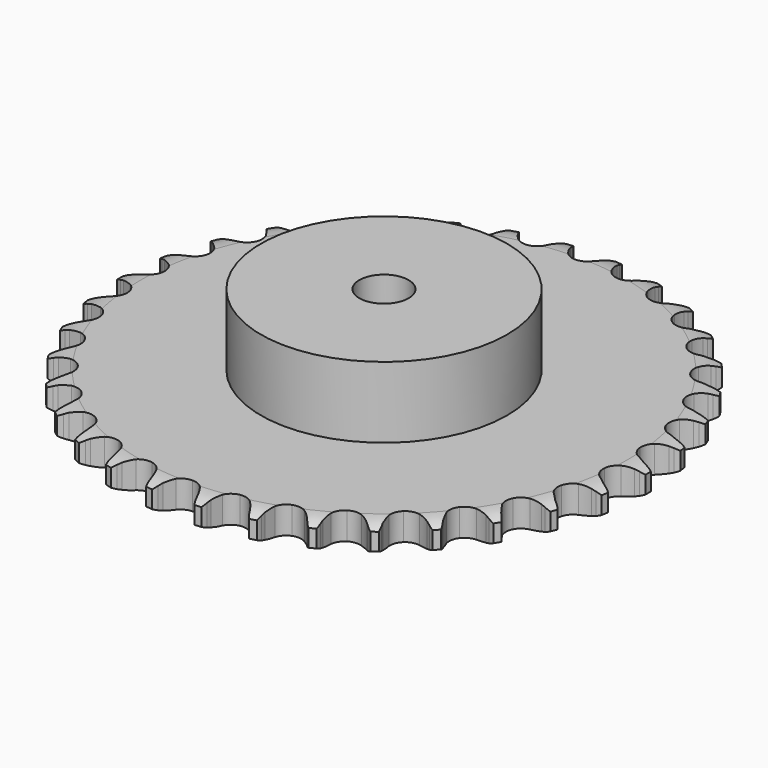
from build123d import *

# Parameters (mm, degrees)
PAD_DEPTH         = 11.1
SKETCH001_R       = 50
PAD001_DEPTH      = 40
SKETCH002_R       = 10
POCKET_DEPTH      = 0.001
POCKET_DEPTH_BACK = 40.001


with BuildPart() as part:
    # Sprocket → Pad (new body)
    with BuildSketch(Plane.XY):
        with BuildLine():
            ThreePointArc((-10.082744, 108.810139), (-8.639647, 107.094844), (-7.623169, 105.096959))
            Line((-7.623169, 105.096959), (-7.034333, 103.51462))
            ThreePointArc((-7.034333, 103.51462), (-6.1025, 101.4699), (-4.889335, 99.578493))
            ThreePointArc((-4.889335, 99.578493), (-2.734478, 97.77506), (0, 97.128213))
            ThreePointArc((0, 97.128213), (2.734478, 97.77506), (4.889335, 99.578493))
            ThreePointArc((4.889335, 99.578493), (6.1025, 101.4699), (7.034333, 103.51462))
            Line((7.034333, 103.51462), (7.623169, 105.096959))
            ThreePointArc((7.623169, 105.096959), (8.639647, 107.094844), (10.082744, 108.810139))
            ThreePointArc((10.082744, 108.810139), (11.186086, 106.858881), (11.818145, 104.708237))
            Line((11.818145, 104.708237), (12.106202, 103.044642))
            ThreePointArc((12.106202, 103.044642), (12.646452, 100.863514), (13.491415, 98.781393))
            ThreePointArc((13.491415, 98.781393), (15.278202, 96.612713), (17.847262, 95.47442))
            ThreePointArc((17.847262, 95.47442), (20.654038, 95.607795), (23.103585, 96.984567))
            Line((23.103585, 96.984567), (25.935321, 100.459532))
            ThreePointArc((25.935321, 100.459532), (26.350709, 101.194784), (26.804886, 101.90673))
            ThreePointArc((26.804886, 101.90673), (28.171166, 103.683819), (29.904877, 105.10474))
            ThreePointArc((29.904877, 105.10474), (30.630889, 102.983968), (30.857007, 100.753802))
            Line((30.857007, 100.753802), (30.834474, 99.065602))
            ThreePointArc((30.834474, 99.065602), (30.964744, 96.822341), (31.412732, 94.620411))
            ThreePointArc((31.412732, 94.620411), (32.770601, 92.160336), (35.086757, 90.569361))
            ThreePointArc((35.086757, 90.569361), (37.87025, 90.184721), (40.53107, 91.087948))
            Line((40.53107, 91.087948), (43.953114, 93.983414))
            ThreePointArc((43.953114, 93.983414), (44.496531, 94.62982), (45.073794, 95.246189))
            ThreePointArc((45.073794, 95.246189), (46.74335, 96.741967), (48.708635, 97.820126))
            ThreePointArc((48.708635, 97.820126), (49.032595, 95.602059), (48.84507, 93.368317))
            Line((48.84507, 93.368317), (48.512715, 91.713003))
            ThreePointArc((48.512715, 91.713003), (48.228569, 89.484), (48.264325, 87.237244))
            ThreePointArc((48.264325, 87.237244), (49.147037, 84.569549), (51.131415, 82.580071))
            ThreePointArc((51.131415, 82.580071), (53.796836, 81.690515), (56.578318, 82.089438))
            Line((56.578318, 82.089438), (60.474135, 84.306805))
            ThreePointArc((60.474135, 84.306805), (61.127077, 84.842352), (61.807768, 85.342154))
            ThreePointArc((61.807768, 85.342154), (63.723746, 86.505683), (65.853679, 87.204364))
            ThreePointArc((65.853679, 87.204364), (65.764554, 84.964537), (65.169773, 82.803286))
            Line((65.169773, 82.803286), (64.538914, 81.237226))
            ThreePointArc((64.538914, 81.237226), (63.850028, 79.098389), (63.472335, 76.883318))
            ThreePointArc((63.472335, 76.883318), (63.849829, 74.098847), (65.434854, 71.778615))
            ThreePointArc((65.434854, 71.778615), (67.891435, 70.414436), (70.698859, 70.295471))
            Line((70.698859, 70.295471), (74.935783, 71.759228))
            ThreePointArc((74.935783, 71.759228), (75.676013, 72.165679), (76.436953, 72.531894))
            ThreePointArc((76.436953, 72.531894), (78.534105, 73.323552), (80.756155, 73.618962))
            ThreePointArc((80.756155, 73.618962), (80.25698, 71.433649), (79.275198, 69.418488))
            Line((79.275198, 69.418488), (78.367317, 67.995014))
            ThreePointArc((78.367317, 67.995014), (77.29715, 66.019177), (76.51887, 63.911222))
            ThreePointArc((76.51887, 63.911222), (76.378292, 61.104798), (77.509987, 58.532825))
            ThreePointArc((77.509987, 58.532825), (79.674073, 56.740478), (82.411835, 56.107675))
            Line((82.411835, 56.107675), (86.845582, 56.767977))
            ThreePointArc((86.845582, 56.767977), (87.647894, 57.03149), (88.463169, 57.251647))
            ThreePointArc((88.463169, 57.251647), (90.67008, 57.644475), (92.908576, 57.526555))
            ThreePointArc((92.908576, 57.526555), (92.016351, 55.470174), (90.681001, 53.669727))
            Line((90.681001, 53.669727), (89.527016, 52.437313))
            ThreePointArc((89.527016, 52.437313), (88.112011, 50.691761), (86.959647, 48.762707))
            ThreePointArc((86.959647, 48.762707), (86.305783, 46.029899), (86.94561, 43.29377))
            ThreePointArc((86.94561, 43.29377), (88.743506, 41.134291), (91.318376, 40.009201))
            Line((91.318376, 40.009201), (95.79796, 39.84356))
            ThreePointArc((95.79796, 39.84356), (96.635031, 39.955162), (97.476878, 40.021764))
            ThreePointArc((97.476878, 40.021764), (99.718394, 40.002385), (101.897108, 39.47515))
            ThreePointArc((101.897108, 39.47515), (100.642215, 37.617729), (98.998771, 36.093308))
            Line((98.998771, 36.093308), (97.637979, 35.093922))
            ThreePointArc((97.637979, 35.093922), (95.926323, 33.638097), (94.439118, 31.953636))
            ThreePointArc((94.439118, 31.953636), (93.294235, 29.387506), (93.420405, 26.580397))
            ThreePointArc((93.420405, 26.580397), (94.790886, 24.127325), (97.115178, 22.54826))
            Line((97.115178, 22.54826), (101.488052, 21.562319))
            ThreePointArc((101.488052, 21.562319), (102.331378, 21.518209), (103.171129, 21.428988))
            ThreePointArc((103.171129, 21.428988), (105.370918, 20.998061), (107.415656, 20.079466))
            ThreePointArc((107.415656, 20.079466), (105.84083, 18.484257), (103.945256, 17.287774))
            Line((103.945256, 17.287774), (102.423998, 16.55545))
            ThreePointArc((102.423998, 16.55545), (100.47398, 15.438929), (98.702578, 14.056422))
            ThreePointArc((98.702578, 14.056422), (97.105663, 11.744357), (96.713881, 8.961861))
            ThreePointArc((96.713881, 8.961861), (97.610275, 6.298732), (99.60484, 4.319466))
            Line((99.60484, 4.319466), (103.722091, 2.546799))
            ThreePointArc((103.722091, 2.546799), (104.542952, 2.348479), (105.352011, 2.106474))
            ThreePointArc((105.352011, 2.106474), (107.435162, 1.278674), (109.276292, 0))
            ThreePointArc((109.276292, 0), (107.435162, -1.278674), (105.352011, -2.106474))
            Line((105.352011, -2.106474), (103.722091, -2.546799))
            ThreePointArc((103.722091, -2.546799), (101.600115, -3.285993), (99.60484, -4.319466))
            ThreePointArc((99.60484, -4.319466), (97.610275, -6.298732), (96.713881, -8.961861))
            ThreePointArc((96.713881, -8.961861), (97.105663, -11.744357), (98.702578, -14.056422))
            Line((98.702578, -14.056422), (102.423998, -16.55545))
            ThreePointArc((102.423998, -16.55545), (103.194442, -16.901225), (103.945256, -17.287774))
            ThreePointArc((103.945256, -17.287774), (105.84083, -18.484257), (107.415656, -20.079466))
            ThreePointArc((107.415656, -20.079466), (105.370918, -20.998061), (103.171129, -21.428988))
            Line((103.171129, -21.428988), (101.488052, -21.562319))
            ThreePointArc((101.488052, -21.562319), (99.26638, -21.899015), (97.115178, -22.54826))
            ThreePointArc((97.115178, -22.54826), (94.790886, -24.127325), (93.420405, -26.580397))
            ThreePointArc((93.420405, -26.580397), (93.294235, -29.387506), (94.439118, -31.953636))
            Line((94.439118, -31.953636), (97.637979, -35.093922))
            ThreePointArc((97.637979, -35.093922), (98.331768, -35.575378), (98.998771, -36.093308))
            ThreePointArc((98.998771, -36.093308), (100.642215, -37.617729), (101.897108, -39.47515))
            ThreePointArc((101.897108, -39.47515), (99.718394, -40.002385), (97.476878, -40.021764))
            Line((97.476878, -40.021764), (95.79796, -39.84356))
            ThreePointArc((95.79796, -39.84356), (93.552248, -39.766292), (91.318376, -40.009201))
            ThreePointArc((91.318376, -40.009201), (88.743506, -41.134291), (86.94561, -43.29377))
            ThreePointArc((86.94561, -43.29377), (86.305783, -46.029899), (86.959647, -48.762707))
            Line((86.959647, -48.762707), (89.527016, -52.437313))
            ThreePointArc((89.527016, -52.437313), (90.120524, -53.038055), (90.681001, -53.669727))
            ThreePointArc((90.681001, -53.669727), (92.016351, -55.470174), (92.908576, -57.526555))
            ThreePointArc((92.908576, -57.526555), (90.67008, -57.644475), (88.463169, -57.251647))
            Line((88.463169, -57.251647), (86.845582, -56.767977))
            ThreePointArc((86.845582, -56.767977), (84.652306, -56.279376), (82.411835, -56.107675))
            ThreePointArc((82.411835, -56.107675), (79.674073, -56.740478), (77.509987, -58.532825))
            ThreePointArc((77.509987, -58.532825), (76.378292, -61.104798), (76.51887, -63.911222))
            Line((76.51887, -63.911222), (78.367317, -67.995014))
            ThreePointArc((78.367317, -67.995014), (78.840334, -68.694584), (79.275198, -69.418488))
            ThreePointArc((79.275198, -69.418488), (80.25698, -71.433649), (80.756155, -73.618962))
            ThreePointArc((80.756155, -73.618962), (78.534105, -73.323552), (76.436953, -72.531894))
            Line((76.436953, -72.531894), (74.935783, -71.759228))
            ThreePointArc((74.935783, -71.759228), (72.869632, -70.875933), (70.698859, -70.295471))
            ThreePointArc((70.698859, -70.295471), (67.891435, -70.414436), (65.434854, -71.778615))
            ThreePointArc((65.434854, -71.778615), (63.849829, -74.098847), (63.472335, -76.883318))
            Line((63.472335, -76.883318), (64.538914, -81.237226))
            ThreePointArc((64.538914, -81.237226), (64.875331, -82.011802), (65.169773, -82.803286))
            ThreePointArc((65.169773, -82.803286), (65.764554, -84.964537), (65.853679, -87.204364))
            ThreePointArc((65.853679, -87.204364), (63.723746, -86.505683), (61.807768, -85.342154))
            Line((61.807768, -85.342154), (60.474135, -84.306805))
            ThreePointArc((60.474135, -84.306805), (58.605469, -83.058895), (56.578318, -82.089438))
            ThreePointArc((56.578318, -82.089438), (53.796836, -81.690515), (51.131415, -82.580071))
            ThreePointArc((51.131415, -82.580071), (49.147037, -84.569549), (48.264325, -87.237244))
            Line((48.264325, -87.237244), (48.512715, -91.713003))
            ThreePointArc((48.512715, -91.713003), (48.701076, -92.536206), (48.84507, -93.368317))
            ThreePointArc((48.84507, -93.368317), (49.032595, -95.602059), (48.708635, -97.820126))
            ThreePointArc((48.708635, -97.820126), (46.74335, -96.741967), (45.073794, -95.246189))
            Line((45.073794, -95.246189), (43.953114, -93.983414))
            ThreePointArc((43.953114, -93.983414), (42.345568, -92.413387), (40.53107, -91.087948))
            ThreePointArc((40.53107, -91.087948), (37.87025, -90.184721), (35.086757, -90.569361))
            ThreePointArc((35.086757, -90.569361), (32.770601, -92.160336), (31.412732, -94.620411))
            Line((31.412732, -94.620411), (30.834474, -99.065602))
            ThreePointArc((30.834474, -99.065602), (30.868365, -99.9094), (30.857007, -100.753802))
            ThreePointArc((30.857007, -100.753802), (30.630889, -102.983968), (29.904877, -105.10474))
            ThreePointArc((29.904877, -105.10474), (28.171166, -103.683819), (26.804886, -101.90673))
            Line((26.804886, -101.90673), (25.935321, -100.459532))
            ThreePointArc((25.935321, -100.459532), (24.643639, -98.620851), (23.103585, -96.984567))
            ThreePointArc((23.103585, -96.984567), (20.654038, -95.607795), (17.847262, -95.47442))
            ThreePointArc((17.847262, -95.47442), (15.278202, -96.612713), (13.491415, -98.781393))
            Line((13.491415, -98.781393), (12.106202, -103.044642))
            ThreePointArc((12.106202, -103.044642), (11.984468, -103.8803), (11.818145, -104.708237))
            ThreePointArc((11.818145, -104.708237), (11.186086, -106.858881), (10.082744, -108.810139))
            ThreePointArc((10.082744, -108.810139), (8.639647, -107.094844), (7.623169, -105.096959))
            Line((7.623169, -105.096959), (7.034333, -103.51462))
            ThreePointArc((7.034333, -103.51462), (6.1025, -101.4699), (4.889335, -99.578493))
            ThreePointArc((4.889335, -99.578493), (2.734478, -97.77506), (0, -97.128213))
            ThreePointArc((0, -97.128213), (-2.734478, -97.77506), (-4.889335, -99.578493))
            Line((-4.889335, -99.578493), (-7.034333, -103.51462))
            ThreePointArc((-7.034333, -103.51462), (-7.307545, -104.313681), (-7.623169, -105.096959))
            ThreePointArc((-7.623169, -105.096959), (-8.639647, -107.094844), (-10.082744, -108.810139))
            ThreePointArc((-10.082744, -108.810139), (-11.186086, -106.858881), (-11.818145, -104.708237))
            Line((-11.818145, -104.708237), (-12.106202, -103.044642))
            ThreePointArc((-12.106202, -103.044642), (-12.646452, -100.863514), (-13.491415, -98.781393))
            ThreePointArc((-13.491415, -98.781393), (-15.278202, -96.612713), (-17.847262, -95.47442))
            ThreePointArc((-17.847262, -95.47442), (-20.654038, -95.607795), (-23.103585, -96.984567))
            Line((-23.103585, -96.984567), (-25.935321, -100.459532))
            ThreePointArc((-25.935321, -100.459532), (-26.350709, -101.194784), (-26.804886, -101.90673))
            ThreePointArc((-26.804886, -101.90673), (-28.171166, -103.683819), (-29.904877, -105.10474))
            ThreePointArc((-29.904877, -105.10474), (-30.630889, -102.983968), (-30.857007, -100.753802))
            Line((-30.857007, -100.753802), (-30.834474, -99.065602))
            ThreePointArc((-30.834474, -99.065602), (-30.964744, -96.822341), (-31.412732, -94.620411))
            ThreePointArc((-31.412732, -94.620411), (-32.770601, -92.160336), (-35.086757, -90.569361))
            ThreePointArc((-35.086757, -90.569361), (-37.87025, -90.184721), (-40.53107, -91.087948))
            Line((-40.53107, -91.087948), (-43.953114, -93.983414))
            ThreePointArc((-43.953114, -93.983414), (-44.496531, -94.62982), (-45.073794, -95.246189))
            ThreePointArc((-45.073794, -95.246189), (-46.74335, -96.741967), (-48.708635, -97.820126))
            ThreePointArc((-48.708635, -97.820126), (-49.032595, -95.602059), (-48.84507, -93.368317))
            Line((-48.84507, -93.368317), (-48.512715, -91.713003))
            ThreePointArc((-48.512715, -91.713003), (-48.228569, -89.484), (-48.264325, -87.237244))
            ThreePointArc((-48.264325, -87.237244), (-49.147037, -84.569549), (-51.131415, -82.580071))
            ThreePointArc((-51.131415, -82.580071), (-53.796836, -81.690515), (-56.578318, -82.089438))
            Line((-56.578318, -82.089438), (-60.474135, -84.306805))
            ThreePointArc((-60.474135, -84.306805), (-61.127077, -84.842352), (-61.807768, -85.342154))
            ThreePointArc((-61.807768, -85.342154), (-63.723746, -86.505683), (-65.853679, -87.204364))
            ThreePointArc((-65.853679, -87.204364), (-65.764554, -84.964537), (-65.169773, -82.803286))
            Line((-65.169773, -82.803286), (-64.538914, -81.237226))
            ThreePointArc((-64.538914, -81.237226), (-63.850028, -79.098389), (-63.472335, -76.883318))
            ThreePointArc((-63.472335, -76.883318), (-63.849829, -74.098847), (-65.434854, -71.778615))
            ThreePointArc((-65.434854, -71.778615), (-67.891435, -70.414436), (-70.698859, -70.295471))
            Line((-70.698859, -70.295471), (-74.935783, -71.759228))
            ThreePointArc((-74.935783, -71.759228), (-75.676013, -72.165679), (-76.436953, -72.531894))
            ThreePointArc((-76.436953, -72.531894), (-78.534105, -73.323552), (-80.756155, -73.618962))
            ThreePointArc((-80.756155, -73.618962), (-80.25698, -71.433649), (-79.275198, -69.418488))
            Line((-79.275198, -69.418488), (-78.367317, -67.995014))
            ThreePointArc((-78.367317, -67.995014), (-77.29715, -66.019177), (-76.51887, -63.911222))
            ThreePointArc((-76.51887, -63.911222), (-76.378292, -61.104798), (-77.509987, -58.532825))
            ThreePointArc((-77.509987, -58.532825), (-79.674073, -56.740478), (-82.411835, -56.107675))
            Line((-82.411835, -56.107675), (-86.845582, -56.767977))
            ThreePointArc((-86.845582, -56.767977), (-87.647894, -57.03149), (-88.463169, -57.251647))
            ThreePointArc((-88.463169, -57.251647), (-90.67008, -57.644475), (-92.908576, -57.526555))
            ThreePointArc((-92.908576, -57.526555), (-92.016351, -55.470174), (-90.681001, -53.669727))
            Line((-90.681001, -53.669727), (-89.527016, -52.437313))
            ThreePointArc((-89.527016, -52.437313), (-88.112011, -50.691761), (-86.959647, -48.762707))
            ThreePointArc((-86.959647, -48.762707), (-86.305783, -46.029899), (-86.94561, -43.29377))
            ThreePointArc((-86.94561, -43.29377), (-88.743506, -41.134291), (-91.318376, -40.009201))
            Line((-91.318376, -40.009201), (-95.79796, -39.84356))
            ThreePointArc((-95.79796, -39.84356), (-96.635031, -39.955162), (-97.476878, -40.021764))
            ThreePointArc((-97.476878, -40.021764), (-99.718394, -40.002385), (-101.897108, -39.47515))
            ThreePointArc((-101.897108, -39.47515), (-100.642215, -37.617729), (-98.998771, -36.093308))
            Line((-98.998771, -36.093308), (-97.637979, -35.093922))
            ThreePointArc((-97.637979, -35.093922), (-95.926323, -33.638097), (-94.439118, -31.953636))
            ThreePointArc((-94.439118, -31.953636), (-93.294235, -29.387506), (-93.420405, -26.580397))
            ThreePointArc((-93.420405, -26.580397), (-94.790886, -24.127325), (-97.115178, -22.54826))
            Line((-97.115178, -22.54826), (-101.488052, -21.562319))
            ThreePointArc((-101.488052, -21.562319), (-102.331378, -21.518209), (-103.171129, -21.428988))
            ThreePointArc((-103.171129, -21.428988), (-105.370918, -20.998061), (-107.415656, -20.079466))
            ThreePointArc((-107.415656, -20.079466), (-105.84083, -18.484257), (-103.945256, -17.287774))
            Line((-103.945256, -17.287774), (-102.423998, -16.55545))
            ThreePointArc((-102.423998, -16.55545), (-100.47398, -15.438929), (-98.702578, -14.056422))
            ThreePointArc((-98.702578, -14.056422), (-97.105663, -11.744357), (-96.713881, -8.961861))
            ThreePointArc((-96.713881, -8.961861), (-97.610275, -6.298732), (-99.60484, -4.319466))
            Line((-99.60484, -4.319466), (-103.722091, -2.546799))
            ThreePointArc((-103.722091, -2.546799), (-104.542952, -2.348479), (-105.352011, -2.106474))
            ThreePointArc((-105.352011, -2.106474), (-107.435162, -1.278674), (-109.276292, 0))
            ThreePointArc((-109.276292, 0), (-107.435162, 1.278674), (-105.352011, 2.106474))
            Line((-105.352011, 2.106474), (-103.722091, 2.546799))
            ThreePointArc((-103.722091, 2.546799), (-101.600115, 3.285993), (-99.60484, 4.319466))
            ThreePointArc((-99.60484, 4.319466), (-97.610275, 6.298732), (-96.713881, 8.961861))
            ThreePointArc((-96.713881, 8.961861), (-97.105663, 11.744357), (-98.702578, 14.056422))
            Line((-98.702578, 14.056422), (-102.423998, 16.55545))
            ThreePointArc((-102.423998, 16.55545), (-103.194442, 16.901225), (-103.945256, 17.287774))
            ThreePointArc((-103.945256, 17.287774), (-105.84083, 18.484257), (-107.415656, 20.079466))
            ThreePointArc((-107.415656, 20.079466), (-105.370918, 20.998061), (-103.171129, 21.428988))
            Line((-103.171129, 21.428988), (-101.488052, 21.562319))
            ThreePointArc((-101.488052, 21.562319), (-99.26638, 21.899015), (-97.115178, 22.54826))
            ThreePointArc((-97.115178, 22.54826), (-94.790886, 24.127325), (-93.420405, 26.580397))
            ThreePointArc((-93.420405, 26.580397), (-93.294235, 29.387506), (-94.439118, 31.953636))
            Line((-94.439118, 31.953636), (-97.637979, 35.093922))
            ThreePointArc((-97.637979, 35.093922), (-98.331768, 35.575378), (-98.998771, 36.093308))
            ThreePointArc((-98.998771, 36.093308), (-100.642215, 37.617729), (-101.897108, 39.47515))
            ThreePointArc((-101.897108, 39.47515), (-99.718394, 40.002385), (-97.476878, 40.021764))
            Line((-97.476878, 40.021764), (-95.79796, 39.84356))
            ThreePointArc((-95.79796, 39.84356), (-93.552248, 39.766292), (-91.318376, 40.009201))
            ThreePointArc((-91.318376, 40.009201), (-88.743506, 41.134291), (-86.94561, 43.29377))
            ThreePointArc((-86.94561, 43.29377), (-86.305783, 46.029899), (-86.959647, 48.762707))
            Line((-86.959647, 48.762707), (-89.527016, 52.437313))
            ThreePointArc((-89.527016, 52.437313), (-90.120524, 53.038055), (-90.681001, 53.669727))
            ThreePointArc((-90.681001, 53.669727), (-92.016351, 55.470174), (-92.908576, 57.526555))
            ThreePointArc((-92.908576, 57.526555), (-90.67008, 57.644475), (-88.463169, 57.251647))
            Line((-88.463169, 57.251647), (-86.845582, 56.767977))
            ThreePointArc((-86.845582, 56.767977), (-84.652306, 56.279376), (-82.411835, 56.107675))
            ThreePointArc((-82.411835, 56.107675), (-79.674073, 56.740478), (-77.509987, 58.532825))
            ThreePointArc((-77.509987, 58.532825), (-76.378292, 61.104798), (-76.51887, 63.911222))
            Line((-76.51887, 63.911222), (-78.367317, 67.995014))
            ThreePointArc((-78.367317, 67.995014), (-78.840334, 68.694584), (-79.275198, 69.418488))
            ThreePointArc((-79.275198, 69.418488), (-80.25698, 71.433649), (-80.756155, 73.618962))
            ThreePointArc((-80.756155, 73.618962), (-78.534105, 73.323552), (-76.436953, 72.531894))
            Line((-76.436953, 72.531894), (-74.935783, 71.759228))
            ThreePointArc((-74.935783, 71.759228), (-72.869632, 70.875933), (-70.698859, 70.295471))
            ThreePointArc((-70.698859, 70.295471), (-67.891435, 70.414436), (-65.434854, 71.778615))
            ThreePointArc((-65.434854, 71.778615), (-63.849829, 74.098847), (-63.472335, 76.883318))
            Line((-63.472335, 76.883318), (-64.538914, 81.237226))
            ThreePointArc((-64.538914, 81.237226), (-64.875331, 82.011802), (-65.169773, 82.803286))
            ThreePointArc((-65.169773, 82.803286), (-65.764554, 84.964537), (-65.853679, 87.204364))
            ThreePointArc((-65.853679, 87.204364), (-63.723746, 86.505683), (-61.807768, 85.342154))
            Line((-61.807768, 85.342154), (-60.474135, 84.306805))
            ThreePointArc((-60.474135, 84.306805), (-58.605469, 83.058895), (-56.578318, 82.089438))
            ThreePointArc((-56.578318, 82.089438), (-53.796836, 81.690515), (-51.131415, 82.580071))
            ThreePointArc((-51.131415, 82.580071), (-49.147037, 84.569549), (-48.264325, 87.237244))
            Line((-48.264325, 87.237244), (-48.512715, 91.713003))
            ThreePointArc((-48.512715, 91.713003), (-48.701076, 92.536206), (-48.84507, 93.368317))
            ThreePointArc((-48.84507, 93.368317), (-49.032595, 95.602059), (-48.708635, 97.820126))
            ThreePointArc((-48.708635, 97.820126), (-46.74335, 96.741967), (-45.073794, 95.246189))
            Line((-45.073794, 95.246189), (-43.953114, 93.983414))
            ThreePointArc((-43.953114, 93.983414), (-42.345568, 92.413387), (-40.53107, 91.087948))
            ThreePointArc((-40.53107, 91.087948), (-37.87025, 90.184721), (-35.086757, 90.569361))
            ThreePointArc((-35.086757, 90.569361), (-32.770601, 92.160336), (-31.412732, 94.620411))
            Line((-31.412732, 94.620411), (-30.834474, 99.065602))
            ThreePointArc((-30.834474, 99.065602), (-30.868365, 99.9094), (-30.857007, 100.753802))
            ThreePointArc((-30.857007, 100.753802), (-30.630889, 102.983968), (-29.904877, 105.10474))
            ThreePointArc((-29.904877, 105.10474), (-28.171166, 103.683819), (-26.804886, 101.90673))
            Line((-26.804886, 101.90673), (-25.935321, 100.459532))
            ThreePointArc((-25.935321, 100.459532), (-24.643639, 98.620851), (-23.103585, 96.984567))
            ThreePointArc((-23.103585, 96.984567), (-20.654038, 95.607795), (-17.847262, 95.47442))
            ThreePointArc((-17.847262, 95.47442), (-15.278202, 96.612713), (-13.491415, 98.781393))
            Line((-13.491415, 98.781393), (-12.106202, 103.044642))
            ThreePointArc((-12.106202, 103.044642), (-11.984468, 103.8803), (-11.818145, 104.708237))
            ThreePointArc((-11.818145, 104.708237), (-11.186086, 106.858881), (-10.082744, 108.810139))
        make_face()
    extrude(amount=PAD_DEPTH)

    # Sketch → Groove (revolve, cut)
    with BuildSketch(Plane.XZ):
        with BuildLine():
            Line((98.814719, 0), (107.3, 0))
            Line((115.785281, 0), (107.3, 0))
            Line((115.785281, 11.1), (115.785281, 0))
            Line((107.3, 11.1), (115.785281, 11.1))
            Line((98.814719, 11.1), (107.3, 11.1))
            ThreePointArc((107.3, 9.1), (103.173618, 10.593242), (98.814719, 11.1))
            Line((107.3, 2), (107.3, 9.1))
            ThreePointArc((98.814719, 0), (103.173618, 0.506758), (107.3, 2))
        make_face()
    revolve(axis=Axis((0, 0, 0), (0, 0, 1)), mode=Mode.SUBTRACT)

    # Sketch001 → Pad001 (join)
    with BuildSketch(Plane.XY):
        Circle(SKETCH001_R)
    extrude(amount=PAD001_DEPTH)

    # Sketch002 → Pocket (cut, two sides)
    with BuildSketch(Plane.XY) as pocket_sk:
        Circle(SKETCH002_R)
    extrude(amount=-POCKET_DEPTH, mode=Mode.SUBTRACT)
    extrude(pocket_sk.sketch, amount=POCKET_DEPTH_BACK, mode=Mode.SUBTRACT)


solid = part.part
